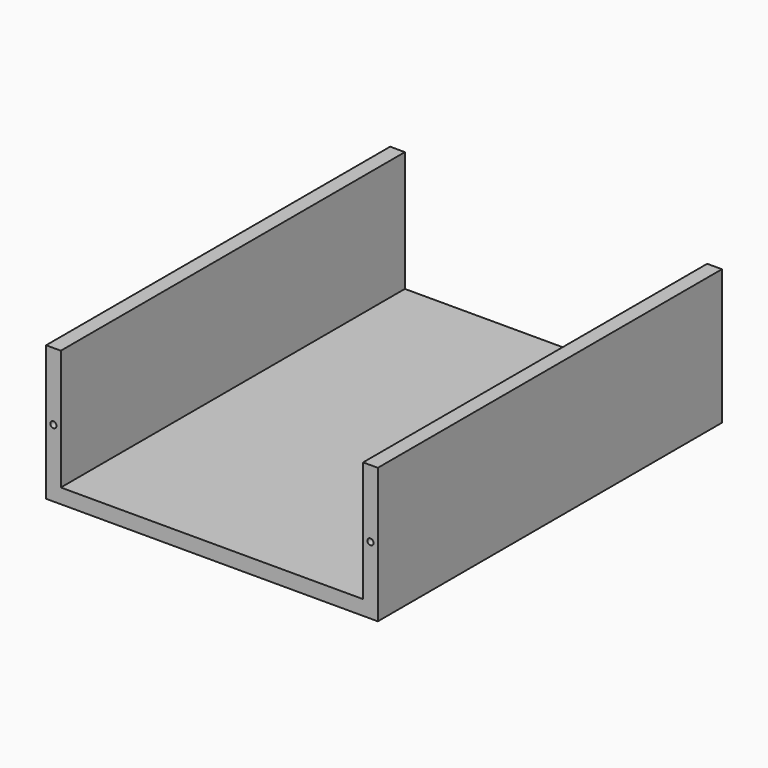
from build123d import *

# Parameters (mm, degrees)
F0_R     = 2.5
F1_DEPTH = 350


with BuildPart() as f1:
    # F0 (on Front) → F1 (new body)
    with BuildSketch(Plane.XZ):
        Polygon((0, 110), (0, 0), (270, 0), (270, 110), (258, 110), (258, 12), (12, 12), (12, 110), align=None)
        with Locations((6, 55)):
            Circle(F0_R, mode=Mode.SUBTRACT)
        with BuildLine():
            ThreePointArc((264, 52.5), (262.232233047, 56.767766953), (266.5, 55))
            ThreePointArc((266.5, 55), (265.767766953, 53.232233047), (264, 52.5))
        make_face(mode=Mode.SUBTRACT)
    extrude(amount=F1_DEPTH)


solid = f1.part
